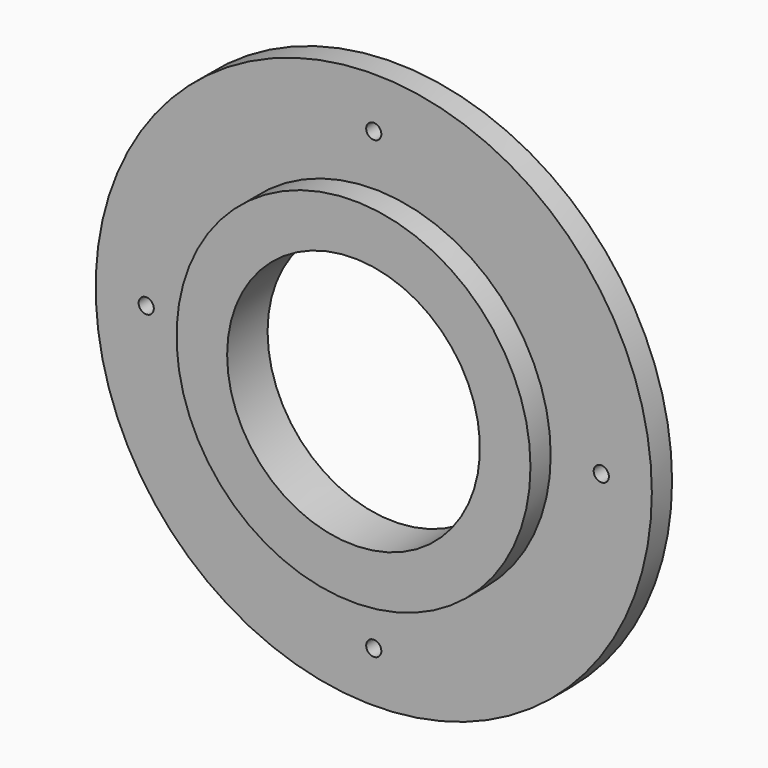
from build123d import *

# Parameters (mm, degrees)
F0_R     = 55
F1_DEPTH = 5
F2_R     = 35
F3_DEPTH = 5
F4_R     = 25
F5_DEPTH = 25
F6_R     = 1.5
F7_DEPTH = 12


with BuildPart() as f1:
    # F0 (on Front) → F1 (new body)
    with BuildSketch(Plane.XZ):
        Circle(F0_R)
    extrude(amount=F1_DEPTH)

    # F2 (on face) → F3 (join)
    with BuildSketch(Plane.XZ.offset(5)):
        Circle(F2_R)
    extrude(amount=F3_DEPTH)

    # F4 (on face) → F5 (cut)
    with BuildSketch(Plane(origin=(0, 0, 0), x_dir=(-1, 0, 0), z_dir=(0, 1, 0))):
        Circle(F4_R)
    extrude(amount=-F5_DEPTH, mode=Mode.SUBTRACT)

    # F6 (on face) → F7 (cut)
    with BuildSketch(Plane.XZ.offset(10)):
        with Locations((-45, 0)):
            Circle(F6_R)
        with Locations((0, 45)):
            Circle(F6_R)
        with Locations((0, -45)):
            Circle(F6_R)
        with Locations((45, 0)):
            Circle(F6_R)
    extrude(amount=-F7_DEPTH, mode=Mode.SUBTRACT)


solid = f1.part
